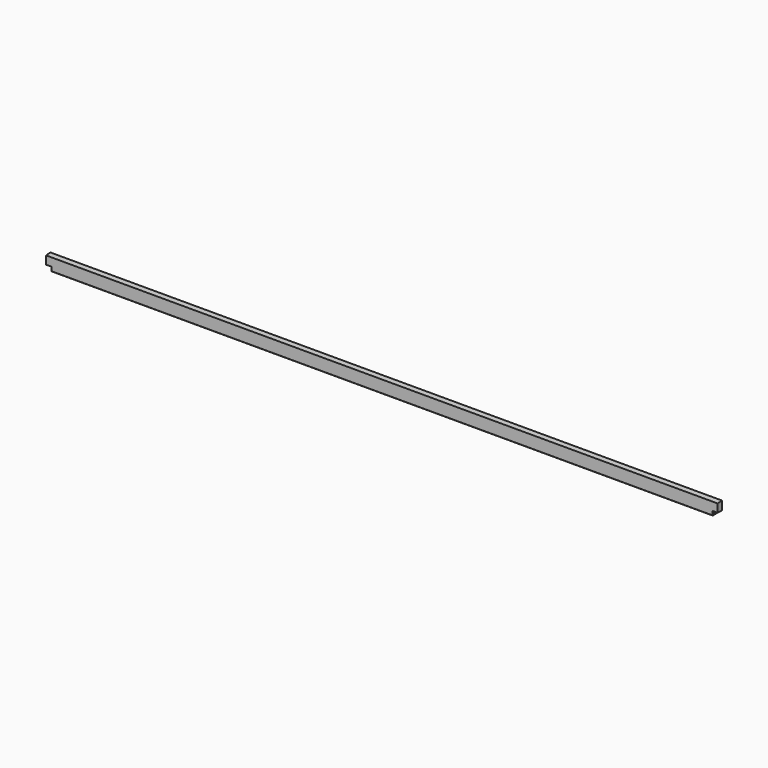
from build123d import *

# Parameters (mm, degrees)
F1_DEPTH      = 2550
F2_W          = 80
F2_H          = 66
F3_DEPTH      = 50
F6_DEPTH      = 2550.001
F6_DEPTH_BACK = 2550.001


with BuildPart() as f1:
    # F0 (on Right) → F1 (new body, symmetric)
    with BuildSketch(Plane.YZ):
        Polygon((20, -70), (20, 56), (17, 59), (12, 59), (12, 73), (4, 73), (4, 59), (-4, 59), (-4, 73), (-12, 73), (-12, 59), (-17, 59), (-20, 56), (-20, -70), (-17, -73), (-12, -73), (-12, -59), (-4, -59), (-4, -73), (4, -73), (4, -59), (12, -59), (12, -73), (17, -73), align=None)
    extrude(amount=F1_DEPTH, both=True)

    # F2 (on Front) → F3 (cut, symmetric)
    with BuildSketch(Plane.XZ):
        with Locations((-2550, 59)):
            Rectangle(F2_W, F2_H)
        with Locations((-2550, -73)):
            Rectangle(F2_W, F2_H)
        with Locations((2550, 59)):
            Rectangle(F2_W, F2_H)
        with Locations((2550, -73)):
            Rectangle(F2_W, F2_H)
    extrude(amount=F3_DEPTH, both=True, mode=Mode.SUBTRACT)

    # F5 (on Right) → F6 (cut, two sides)
    with BuildSketch(Plane.YZ) as f6_sk:
        Polygon((-30, 83), (-30, 21.317628), (30, 26.936474), (30, 83), align=None)
    extrude(amount=F6_DEPTH, mode=Mode.SUBTRACT)
    extrude(f6_sk.sketch, amount=-F6_DEPTH_BACK, mode=Mode.SUBTRACT)


solid = f1.part
